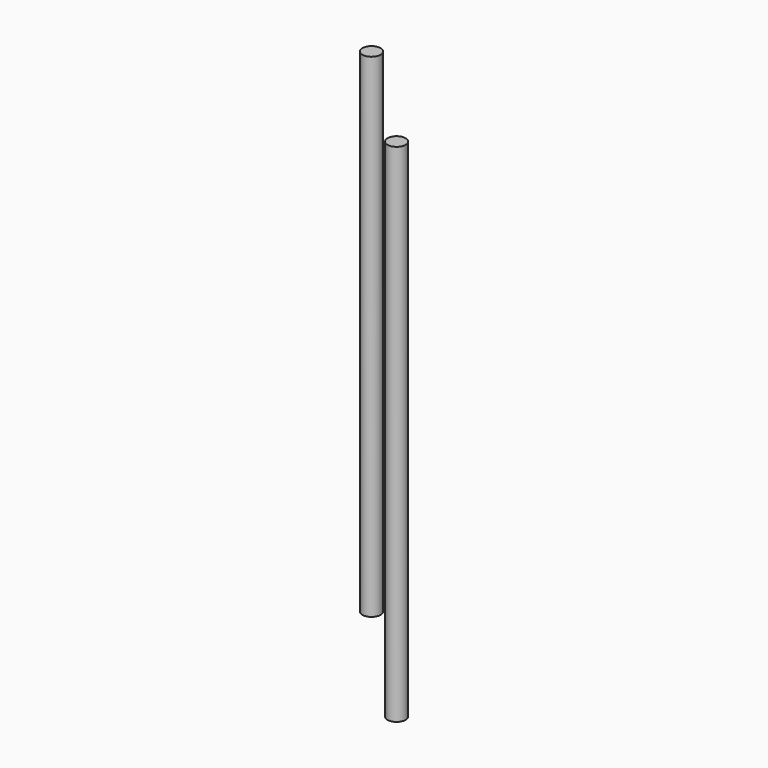
from build123d import *

# Parameters (mm, degrees)
F0_R     = 3.175
F1_DEPTH = 177.8
F2_R     = 3.175
F3_DEPTH = 173.2


with BuildPart() as f1:
    # F0 (on Top) → F1 (new body)
    with BuildSketch(Plane.XY):
        with Locations((0.130679, 0)):
            Circle(F0_R)
    extrude(amount=F1_DEPTH)


with BuildPart() as f3:
    # F2 (on Top) → F3 (new body)
    with BuildSketch(Plane.XY):
        with Locations((-44.18182, 44.386365)):
            Circle(F2_R)
    extrude(amount=F3_DEPTH)


solid = Compound([f1.part, f3.part])
